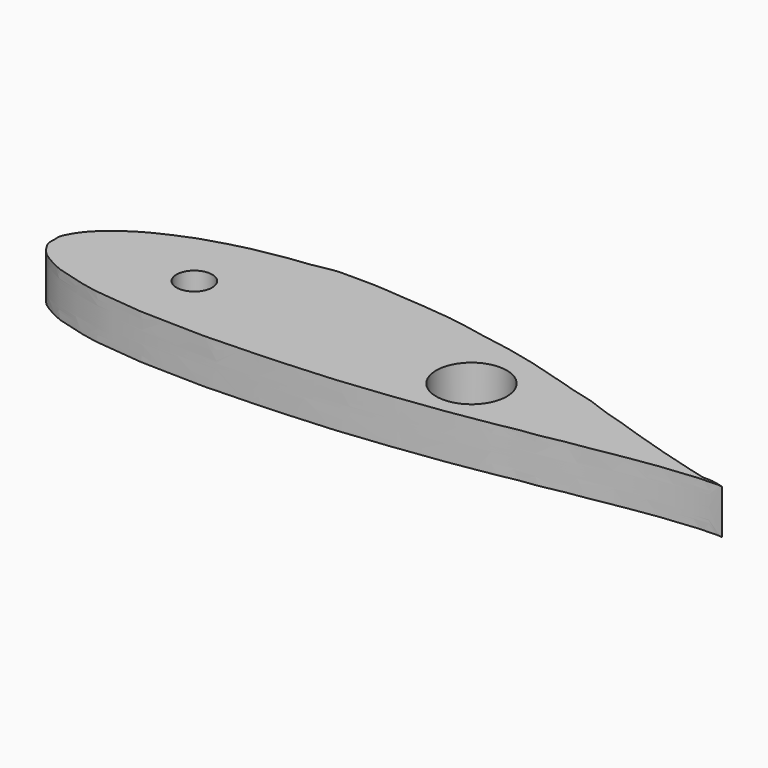
from build123d import *

# Parameters (mm, degrees)
F0_R     = 0.8
F0_R_2   = 1.5875
F1_DEPTH = 2


with BuildPart() as f1:
    # F0 (on Top) → F1 (new body)
    with BuildSketch(Plane.XY):
        with BuildLine():
            add(Edge.make_bspline(
                [(-21.278365, 25.159105), (-21.340802, 25.170599), (-21.524993, 25.186689), (-21.812279, 25.149348), (-22.154274, 25.168278), (-22.502031, 25.126556), (-22.901199, 25.096179), (-23.356608, 25.042986), (-23.872632, 24.993014), (-24.447843, 24.904104), (-25.071835, 24.814223), (-25.737952, 24.701662), (-26.442278, 24.556555), (-27.204325, 24.464577), (-28.001685, 24.317589), (-28.823161, 24.13154), (-29.695558, 24.064779), (-30.569483, 23.834631), (-31.498218, 23.732749), (-32.432117, 23.543499), (-33.389277, 23.462388), (-34.347792, 23.295418), (-35.323746, 23.20348), (-36.308802, 23.076934), (-37.2892, 22.989214), (-38.266061, 22.918858), (-39.23324, 22.87892), (-40.190344, 22.809656), (-41.128583, 22.798698), (-42.050353, 22.738709), (-42.944277, 22.738849), (-43.815275, 22.770918), (-44.644345, 22.787057), (-45.440657, 22.787959), (-46.185139, 22.890637), (-46.903568, 22.95624), (-47.571559, 23.006896), (-48.199861, 23.124659), (-48.761136, 23.271133), (-49.285533, 23.412533), (-49.757029, 23.545079), (-50.157155, 23.742426), (-50.509276, 23.934819), (-50.809619, 24.139629), (-51.022724, 24.387202), (-51.179715, 24.6311), (-51.306171, 24.88502), (-51.263644, 25.153748), (-51.314309, 25.436608), (-51.191856, 25.727459), (-51.017053, 26.019581), (-50.805169, 26.324523), (-50.511566, 26.62402), (-50.168275, 26.933036), (-49.755419, 27.230417), (-49.299638, 27.529566), (-48.775431, 27.807751), (-48.19812, 28.06435), (-47.575235, 28.340919), (-46.899274, 28.549822), (-46.18552, 28.763605), (-45.441464, 28.954355), (-44.646886, 29.092751), (-43.814334, 29.246994), (-42.932288, 29.304989), (-42.049983, 29.552672), (-41.122379, 29.477268), (-40.191766, 29.530394), (-39.243756, 29.394774), (-38.281222, 29.368774), (-37.301912, 29.249128), (-36.308535, 29.173345), (-35.32896, 28.921664), (-34.347074, 28.794341), (-33.375396, 28.596971), (-32.431736, 28.38199), (-31.499981, 28.12037), (-30.59016, 27.849098), (-29.703338, 27.559158), (-28.801322, 27.377377), (-28.009896, 27.007103), (-27.195893, 26.815153), (-26.461371, 26.53646), (-25.745265, 26.322104), (-25.083812, 26.093885), (-24.455646, 25.918776), (-23.878916, 25.747771), (-23.359389, 25.593803), (-22.89922, 25.471884), (-22.510724, 25.383933), (-22.15082, 25.263121), (-21.837491, 25.336281), (-21.081656, 25.122893), (-21.278365, 25.159105)],
                knots=[0, 0, 0, 0, 0.188457, 0.554931, 0.862522, 1.213222, 1.602951, 2.064032, 2.588371, 3.157986, 3.809641, 4.479755, 5.184422, 5.965937, 6.780751, 7.616359, 8.489636, 9.396738, 10.318318, 11.288471, 12.252181, 13.196299, 14.205273, 15.191612, 16.175579, 17.157698, 18.129515, 19.079408, 20.035684, 20.943335, 21.849596, 22.715907, 23.557868, 24.338134, 25.101153, 25.808888, 26.503138, 27.109014, 27.723463, 28.242717, 28.739756, 29.188269, 29.576456, 29.944995, 30.271269, 30.545592, 30.822643, 31.089576, 31.338921, 31.66856, 31.997805, 32.36928, 32.776266, 33.253364, 33.753442, 34.30083, 34.888014, 35.530999, 36.196429, 36.930348, 37.650551, 38.432577, 39.232356, 40.069803, 40.970502, 41.879407, 42.78711, 43.735456, 44.671506, 45.648851, 46.621722, 47.630697, 48.630814, 49.646611, 50.598396, 51.604278, 52.549496, 53.501008, 54.452521, 55.347813, 56.249173, 57.056662, 57.849042, 58.603412, 59.298671, 59.94741, 60.559517, 61.102316, 61.576396, 61.976791, 62.328399, 62.617895, 63.21164, 63.21164, 63.21164, 63.21164], degree=3))
        make_face()
        with Locations((-45.467627, 25.789259)):
            Circle(F0_R, mode=Mode.SUBTRACT)
        with Locations((-33.003501, 25.789259)):
            Circle(F0_R_2, mode=Mode.SUBTRACT)
    extrude(amount=F1_DEPTH)


solid = f1.part
